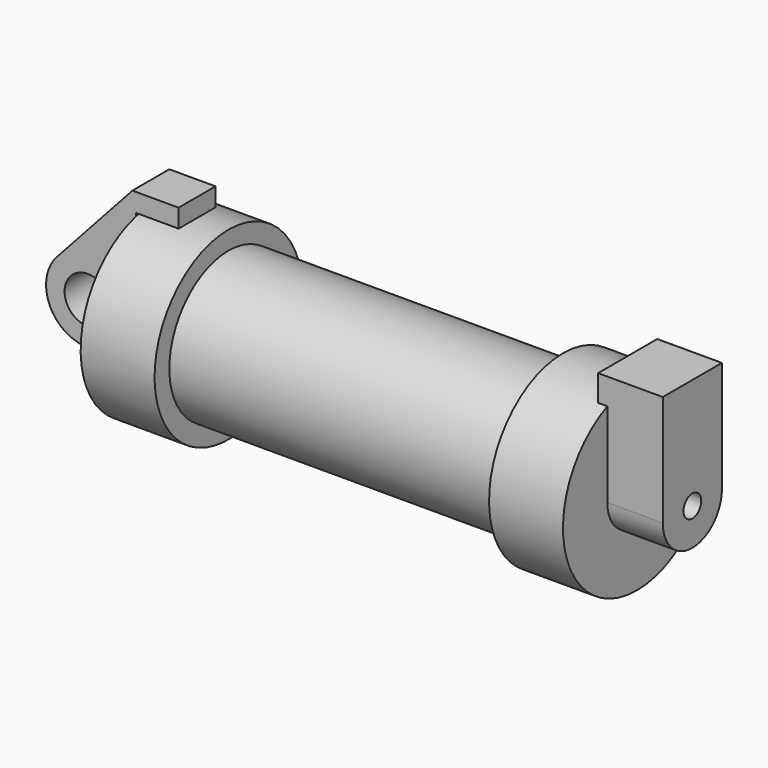
from build123d import *

# Parameters (mm, degrees)
F0_W          = 5.842
F0_H          = 12.7
F0_R          = 3.175
F2_DEPTH      = 3.175
F3_R          = 1.524
F4_DEPTH      = 7.62
F4_DEPTH_BACK = 1.27


with BuildPart() as f1:
    # F0 (on Front) → F1 (revolve)
    with BuildSketch(Plane.XZ):
        with Locations((2.921, 6.35)):
            Rectangle(F0_W, F0_H)
        Polygon((5.842, 12.7), (5.842, 0), (66.294, 0), (66.294, 12.7), (56.134, 12.7), (56.134, 10.16), (10.16, 10.16), (10.16, 12.7), align=None)
    revolve(axis=Axis((33.147, 0, 0), (-1, 0, 0)))

    # F3 (on face) → F4 (join, two sides)
    with BuildSketch(Plane.YZ.offset(66.294)) as f4_sk:
        with BuildLine():
            ThreePointArc((-5.08, 0), (0, 5.08), (5.08, 0))
            Line((5.08, 0), (5.08, 11.6397422652))
            ThreePointArc((5.08, 11.6397422652), (0, 12.7), (-5.08, 11.6397422652))
            Line((-5.08, 11.6397422652), (-5.08, 0))
        make_face()
        with BuildLine():
            ThreePointArc((-5.08, 11.6397422652), (0, 12.7), (5.08, 11.6397422652))
            Line((5.08, 11.6397422652), (5.08, 15.24))
            Line((5.08, 15.24), (-5.08, 15.24))
            Line((-5.08, 15.24), (-5.08, 11.6397422652))
        make_face()
        with BuildLine():
            ThreePointArc((-5.08, 0), (0, -5.08), (5.08, 0))
            ThreePointArc((5.08, 0), (0, 5.08), (-5.08, 0))
        make_face()
        Circle(F3_R, mode=Mode.SUBTRACT)
    extrude(amount=F4_DEPTH)
    extrude(f4_sk.sketch, amount=-F4_DEPTH_BACK)


with BuildPart() as f2:
    # F0 (on Front) → F2 (new body, symmetric)
    with BuildSketch(Plane.XZ):
        with BuildLine():
            ThreePointArc((-8.1826630726, -5.5069827884), (-3.1957909266, -4.5493385486), (-0.9398, 0))
            ThreePointArc((-0.9398, 0), (-4.5919612295, 5.3297205562), (-10.8806298187, 3.8475430269))
            ThreePointArc((-10.8806298187, 3.8475430269), (-12.1459778134, -1.5837270034), (-8.1826630726, -5.5069827884))
        make_face()
        with Locations((-6.6548, 0)):
            Circle(F0_R, mode=Mode.SUBTRACT)
        with BuildLine():
            Line((-0.9398, 0), (0, 0))
            Line((0, 0), (0, 12.7))
            Line((0, 12.7), (5.842, 12.7))
            Line((5.842, 12.7), (5.842, 15.24))
            Line((5.842, 15.24), (-0.508, 15.24))
            Line((-0.508, 15.24), (-10.8806298187, 3.8475430269))
            ThreePointArc((-10.8806298187, 3.8475430269), (-4.5919612295, 5.3297205562), (-0.9398, 0))
        make_face()
        with BuildLine():
            Line((5.842, 0), (0, 0))
            Line((0, 0), (-0.9398, 0))
            ThreePointArc((-0.9398, 0), (-3.1957909266, -4.5493385486), (-8.1826630726, -5.5069827884))
            Line((-8.1826630726, -5.5069827884), (5.842, -9.398))
            Line((5.842, -9.398), (5.842, 0))
        make_face()
    extrude(amount=F2_DEPTH, both=True)


solid = Compound([f1.part, f2.part])
